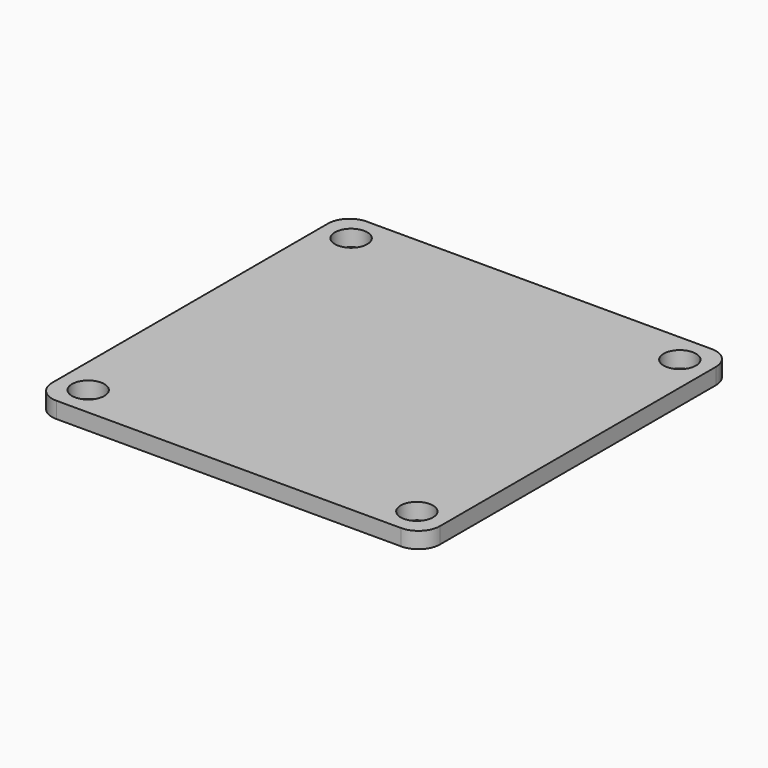
from build123d import *

# Parameters (mm, degrees)
F1_DEPTH = 1.5
F2_D     = 3


with BuildPart() as f1:
    # F0 (on Top) → F1 (new body)
    with BuildSketch(Plane.XY):
        with BuildLine():
            Line((16, 18), (-16, 18))
            ThreePointArc((-16, 18), (-17.414214, 17.414214), (-18, 16))
            Line((-18, 16), (-18, -16))
            ThreePointArc((-18, -16), (-17.414214, -17.414214), (-16, -18))
            Line((-16, -18), (16, -18))
            ThreePointArc((16, -18), (17.414214, -17.414214), (18, -16))
            Line((18, -16), (18, 16))
            ThreePointArc((18, 16), (17.414214, 17.414214), (16, 18))
        make_face()
    extrude(amount=-F1_DEPTH)

    # F2 (through all)
    with Locations(Plane.XY):
        with Locations((-15.25, 15.25), (-15.25, -15.25), (15.25, 15.25), (15.25, -15.25)):
            Hole(F2_D / 2)


solid = f1.part
